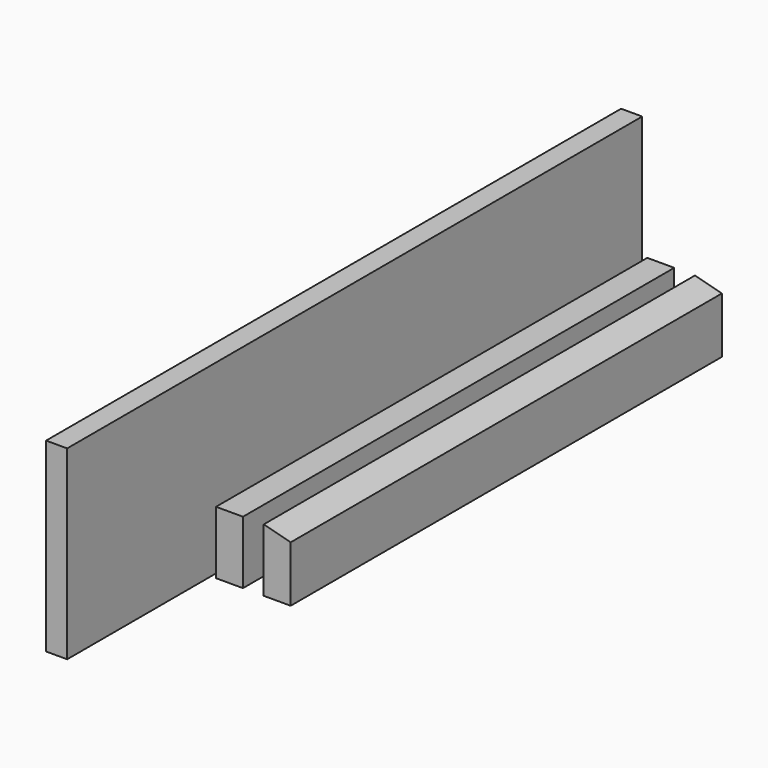
from build123d import *

# Parameters (mm, degrees)
F0_W     = 38.1
F0_H     = 88.9
F1_DEPTH = 762
F2_W     = 30.48
F2_H     = 43.18
F3_DEPTH = 54.356
F5_DEPTH = 762
F6_W     = 29.817994
F6_H     = 262.453258
F7_DEPTH = 1016


with BuildPart() as f1:
    # F0 (on Front) → F1 (new body)
    with BuildSketch(Plane.XZ):
        with Locations((19.05, 44.45)):
            Rectangle(F0_W, F0_H)
    extrude(amount=F1_DEPTH)


with BuildPart() as f3:
    # F2 (on Front) → F3 (new body)
    with BuildSketch(Plane.XZ):
        with Locations((-58.517455, 21.59)):
            Rectangle(F2_W, F2_H)
    extrude(amount=F3_DEPTH)


with BuildPart() as f5:
    # F4 (on Front) → F5 (new body)
    with BuildSketch(Plane.XZ):
        Polygon((67.399275, 88.9), (67.399275, 0), (105.499275, 0), (105.499275, 78.955978), align=None)
    extrude(amount=F5_DEPTH)


with BuildPart() as f7:
    # F6 (on Front) → F7 (new body)
    with BuildSketch(Plane.XZ):
        with Locations((-22.108032, 131.226629)):
            Rectangle(F6_W, F6_H)
    extrude(amount=F7_DEPTH)


solid = Compound([f1.part, f3.part, f5.part, f7.part])
